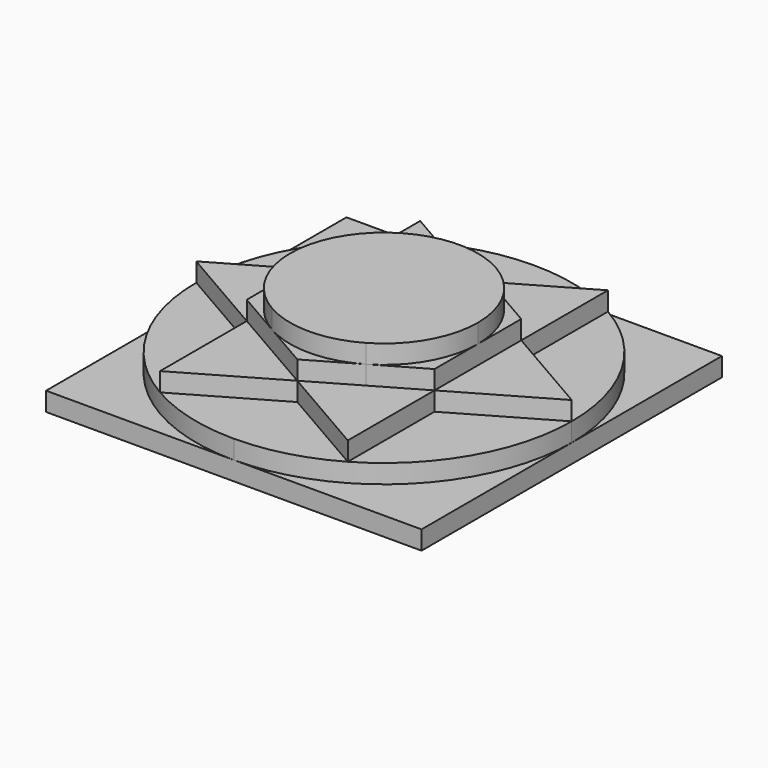
from build123d import *

# Parameters (mm, degrees)
F1_DEPTH = 25
F2_DEPTH = 20
F3_DEPTH = 15
F4_DEPTH = 10
F5_DEPTH = 5


with BuildPart() as f1:
    # F0 (on Top) → F1 (new body)
    with BuildSketch(Plane.XY):
        with BuildLine():
            ThreePointArc((12.5000002531, -21.6506349485), (21.6506351677, -12.4999998734), (25, 0))
            ThreePointArc((25, 0), (21.6506351909, 12.4999998333), (12.5000003334, 21.6506349021))
            ThreePointArc((12.5000003334, 21.6506349021), (3.194e-07, 25), (-12.4999997802, 21.6506352215))
            ThreePointArc((-12.4999997802, 21.6506352215), (-21.650635044, 12.5000000877), (-25, -5.13e-08))
            ThreePointArc((-25, -5.13e-08), (-21.6506351561, -12.4999998936), (-12.5000002572, -21.6506349461))
            ThreePointArc((-12.5000002572, -21.6506349461), (-2.4e-09, -25), (12.5000002531, -21.6506349485))
        make_face()
    extrude(amount=F1_DEPTH)


with BuildPart() as f2:
    # F0 (on Top) → F2 (new body)
    with BuildSketch(Plane.XY):
        with BuildLine():
            Line((-12.4999997802, 21.6506352215), (-25, 14.4337567297))
            Line((-25, 14.4337567297), (-25, -5.13e-08))
            ThreePointArc((-25, -5.13e-08), (-21.650635044, 12.5000000877), (-12.4999997802, 21.6506352215))
        make_face()
        with BuildLine():
            Line((12.5000003334, 21.6506349021), (0, 28.8675134595))
            Line((0, 28.8675134595), (-12.4999997802, 21.6506352215))
            ThreePointArc((-12.4999997802, 21.6506352215), (3.194e-07, 25), (12.5000003334, 21.6506349021))
        make_face()
        with BuildLine():
            Line((25, 0), (25, 14.4337567297))
            Line((25, 14.4337567297), (12.5000003334, 21.6506349021))
            ThreePointArc((12.5000003334, 21.6506349021), (21.6506351909, 12.4999998333), (25, 0))
        make_face()
        with BuildLine():
            ThreePointArc((12.5000002531, -21.6506349485), (21.6506351677, -12.4999998734), (25, 0))
            ThreePointArc((25, 0), (21.6506351909, 12.4999998333), (12.5000003334, 21.6506349021))
            ThreePointArc((12.5000003334, 21.6506349021), (3.194e-07, 25), (-12.4999997802, 21.6506352215))
            ThreePointArc((-12.4999997802, 21.6506352215), (-21.650635044, 12.5000000877), (-25, -5.13e-08))
            ThreePointArc((-25, -5.13e-08), (-21.6506351561, -12.4999998936), (-12.5000002572, -21.6506349461))
            ThreePointArc((-12.5000002572, -21.6506349461), (-2.4e-09, -25), (12.5000002531, -21.6506349485))
        make_face()
        with BuildLine():
            Line((12.5000002531, -21.6506349485), (25, -14.4337567297))
            Line((25, -14.4337567297), (25, 0))
            ThreePointArc((25, 0), (21.6506351677, -12.4999998734), (12.5000002531, -21.6506349485))
        make_face()
        with BuildLine():
            Line((12.5000002531, -21.6506349485), (25, -14.4337567297))
            Line((25, -14.4337567297), (25, 0))
            ThreePointArc((25, 0), (21.6506351677, -12.4999998734), (12.5000002531, -21.6506349485))
        make_face()
        with BuildLine():
            Line((-12.5000002572, -21.6506349461), (0, -28.8675134595))
            Line((0, -28.8675134595), (12.5000002531, -21.6506349485))
            ThreePointArc((12.5000002531, -21.6506349485), (-2.4e-09, -25), (-12.5000002572, -21.6506349461))
        make_face()
        with BuildLine():
            Line((-25, -5.13e-08), (-25, -14.4337567297))
            Line((-25, -14.4337567297), (-12.5000002572, -21.6506349461))
            ThreePointArc((-12.5000002572, -21.6506349461), (-21.6506351561, -12.4999998936), (-25, -5.13e-08))
        make_face()
    extrude(amount=F2_DEPTH)


with BuildPart() as f3:
    # F0 (on Top) → F3 (new body)
    with BuildSketch(Plane.XY):
        Polygon((-25, 14.4337567297), (-50, 0), (-25, -14.4337567297), (-25, -5.13e-08), align=None)
        with BuildLine():
            Line((-12.4999997802, 21.6506352215), (-25, 14.4337567297))
            Line((-25, 14.4337567297), (-25, -5.13e-08))
            ThreePointArc((-25, -5.13e-08), (-21.650635044, 12.5000000877), (-12.4999997802, 21.6506352215))
        make_face()
        Polygon((0, 28.8675134595), (-25, 43.3012701892), (-25, 14.4337567297), (-12.4999997802, 21.6506352215), align=None)
        with BuildLine():
            Line((12.5000003334, 21.6506349021), (0, 28.8675134595))
            Line((0, 28.8675134595), (-12.4999997802, 21.6506352215))
            ThreePointArc((-12.4999997802, 21.6506352215), (3.194e-07, 25), (12.5000003334, 21.6506349021))
        make_face()
        Polygon((25, 14.4337567297), (25, 43.3012701892), (0, 28.8675134595), (12.5000003334, 21.6506349021), align=None)
        with BuildLine():
            Line((25, 0), (25, 14.4337567297))
            Line((25, 14.4337567297), (12.5000003334, 21.6506349021))
            ThreePointArc((12.5000003334, 21.6506349021), (21.6506351909, 12.4999998333), (25, 0))
        make_face()
        Polygon((25, -14.4337567297), (50, 0), (25, 14.4337567297), (25, 0), align=None)
        with BuildLine():
            Line((12.5000002531, -21.6506349485), (25, -14.4337567297))
            Line((25, -14.4337567297), (25, 0))
            ThreePointArc((25, 0), (21.6506351677, -12.4999998734), (12.5000002531, -21.6506349485))
        make_face()
        Polygon((0, -28.8675134595), (25, -43.3012701892), (25, -14.4337567297), (12.5000002531, -21.6506349485), align=None)
        with BuildLine():
            Line((-12.5000002572, -21.6506349461), (0, -28.8675134595))
            Line((0, -28.8675134595), (12.5000002531, -21.6506349485))
            ThreePointArc((12.5000002531, -21.6506349485), (-2.4e-09, -25), (-12.5000002572, -21.6506349461))
        make_face()
        Polygon((-25, -14.4337567297), (-25, -43.3012701892), (0, -28.8675134595), (-12.5000002572, -21.6506349461), align=None)
        with BuildLine():
            Line((-25, -5.13e-08), (-25, -14.4337567297))
            Line((-25, -14.4337567297), (-12.5000002572, -21.6506349461))
            ThreePointArc((-12.5000002572, -21.6506349461), (-21.6506351561, -12.4999998936), (-25, -5.13e-08))
        make_face()
        with BuildLine():
            ThreePointArc((12.5000002531, -21.6506349485), (21.6506351677, -12.4999998734), (25, 0))
            ThreePointArc((25, 0), (21.6506351909, 12.4999998333), (12.5000003334, 21.6506349021))
            ThreePointArc((12.5000003334, 21.6506349021), (3.194e-07, 25), (-12.4999997802, 21.6506352215))
            ThreePointArc((-12.4999997802, 21.6506352215), (-21.650635044, 12.5000000877), (-25, -5.13e-08))
            ThreePointArc((-25, -5.13e-08), (-21.6506351561, -12.4999998936), (-12.5000002572, -21.6506349461))
            ThreePointArc((-12.5000002572, -21.6506349461), (-2.4e-09, -25), (12.5000002531, -21.6506349485))
        make_face()
    extrude(amount=F3_DEPTH)


with BuildPart() as f4:
    # F0 (on Top) → F4 (new body)
    with BuildSketch(Plane.XY):
        with BuildLine():
            Line((-25, 43.3012701892), (25, 43.3012701892))
            ThreePointArc((25, 43.3012701892), (12.9409522085, 48.2962913269), (-9.65e-08, 50))
            ThreePointArc((-9.65e-08, 50), (-12.9409523018, 48.296291302), (-25, 43.3012701892))
        make_face()
        with BuildLine():
            Line((25, 43.3012701892), (50, 0))
            ThreePointArc((50, 0), (43.3012701892, 25), (25, 43.3012701892))
        make_face()
        Polygon((25, 14.4337567297), (50, 0), (25, 43.3012701892), align=None)
        Polygon((25, 14.4337567297), (25, 43.3012701892), (0, 28.8675134595), (12.5000003334, 21.6506349021), align=None)
        Polygon((0, 28.8675134595), (25, 43.3012701892), (-25, 43.3012701892), align=None)
        Polygon((0, 28.8675134595), (-25, 43.3012701892), (-25, 14.4337567297), (-12.4999997802, 21.6506352215), align=None)
        Polygon((-25, 14.4337567297), (-25, 43.3012701892), (-50, 0), align=None)
        with BuildLine():
            Line((-50, 0), (-25, 43.3012701892))
            ThreePointArc((-25, 43.3012701892), (-43.3012701892, 25), (-50, 0))
        make_face()
        with BuildLine():
            ThreePointArc((12.5000002531, -21.6506349485), (21.6506351677, -12.4999998734), (25, 0))
            ThreePointArc((25, 0), (21.6506351909, 12.4999998333), (12.5000003334, 21.6506349021))
            ThreePointArc((12.5000003334, 21.6506349021), (3.194e-07, 25), (-12.4999997802, 21.6506352215))
            ThreePointArc((-12.4999997802, 21.6506352215), (-21.650635044, 12.5000000877), (-25, -5.13e-08))
            ThreePointArc((-25, -5.13e-08), (-21.6506351561, -12.4999998936), (-12.5000002572, -21.6506349461))
            ThreePointArc((-12.5000002572, -21.6506349461), (-2.4e-09, -25), (12.5000002531, -21.6506349485))
        make_face()
        Polygon((25, -14.4337567297), (50, 0), (25, 14.4337567297), (25, 0), align=None)
        with BuildLine():
            Line((12.5000003334, 21.6506349021), (0, 28.8675134595))
            Line((0, 28.8675134595), (-12.4999997802, 21.6506352215))
            ThreePointArc((-12.4999997802, 21.6506352215), (3.194e-07, 25), (12.5000003334, 21.6506349021))
        make_face()
        Polygon((-25, 14.4337567297), (-50, 0), (-25, -14.4337567297), (-25, -5.13e-08), align=None)
        with BuildLine():
            ThreePointArc((-50, 0), (-43.3012701892, -25), (-25, -43.3012701892))
            Line((-25, -43.3012701892), (-50, 0))
        make_face()
        Polygon((-25, -14.4337567297), (-25, -43.3012701892), (0, -28.8675134595), (-12.5000002572, -21.6506349461), align=None)
        Polygon((-25, -43.3012701892), (25, -43.3012701892), (0, -28.8675134595), align=None)
        with BuildLine():
            ThreePointArc((2.28e-08, -50), (12.9409522661, -48.2962913115), (25, -43.3012701892))
            Line((25, -43.3012701892), (-25, -43.3012701892))
            ThreePointArc((-25, -43.3012701892), (-12.9409522441, -48.2962913174), (2.28e-08, -50))
        make_face()
        with BuildLine():
            ThreePointArc((25, -43.3012701892), (43.3012701892, -25), (50, 0))
            Line((50, 0), (25, -43.3012701892))
        make_face()
        Polygon((25, -43.3012701892), (50, 0), (25, -14.4337567297), align=None)
        with BuildLine():
            Line((12.5000002531, -21.6506349485), (25, -14.4337567297))
            Line((25, -14.4337567297), (25, 0))
            ThreePointArc((25, 0), (21.6506351677, -12.4999998734), (12.5000002531, -21.6506349485))
        make_face()
        Polygon((0, -28.8675134595), (25, -43.3012701892), (25, -14.4337567297), (12.5000002531, -21.6506349485), align=None)
        Polygon((-50, 0), (-25, -43.3012701892), (-25, -14.4337567297), align=None)
        with BuildLine():
            Line((-25, -5.13e-08), (-25, -14.4337567297))
            Line((-25, -14.4337567297), (-12.5000002572, -21.6506349461))
            ThreePointArc((-12.5000002572, -21.6506349461), (-21.6506351561, -12.4999998936), (-25, -5.13e-08))
        make_face()
        with BuildLine():
            Line((-12.4999997802, 21.6506352215), (-25, 14.4337567297))
            Line((-25, 14.4337567297), (-25, -5.13e-08))
            ThreePointArc((-25, -5.13e-08), (-21.650635044, 12.5000000877), (-12.4999997802, 21.6506352215))
        make_face()
        with BuildLine():
            Line((-12.5000002572, -21.6506349461), (0, -28.8675134595))
            Line((0, -28.8675134595), (12.5000002531, -21.6506349485))
            ThreePointArc((12.5000002531, -21.6506349485), (-2.4e-09, -25), (-12.5000002572, -21.6506349461))
        make_face()
        with BuildLine():
            Line((25, 0), (25, 14.4337567297))
            Line((25, 14.4337567297), (12.5000003334, 21.6506349021))
            ThreePointArc((12.5000003334, 21.6506349021), (21.6506351909, 12.4999998333), (25, 0))
        make_face()
    extrude(amount=F4_DEPTH)


with BuildPart() as f5:
    # F0 (on Top) → F5 (new body)
    with BuildSketch(Plane.XY):
        with BuildLine():
            ThreePointArc((-25, 43.3012701892), (-12.9409523018, 48.296291302), (-9.65e-08, 50))
            Line((-9.65e-08, 50), (-50, 50))
            Line((-50, 50), (-50, 0))
            ThreePointArc((-50, 0), (-43.3012701892, 25), (-25, 43.3012701892))
        make_face()
        with BuildLine():
            ThreePointArc((25, 43.3012701892), (43.3012701892, 25), (50, 0))
            Line((50, 0), (50, 50))
            Line((50, 50), (-9.65e-08, 50))
            ThreePointArc((-9.65e-08, 50), (12.9409522085, 48.2962913269), (25, 43.3012701892))
        make_face()
        with BuildLine():
            Line((-25, 43.3012701892), (25, 43.3012701892))
            ThreePointArc((25, 43.3012701892), (12.9409522085, 48.2962913269), (-9.65e-08, 50))
            ThreePointArc((-9.65e-08, 50), (-12.9409523018, 48.296291302), (-25, 43.3012701892))
        make_face()
        Polygon((0, 28.8675134595), (25, 43.3012701892), (-25, 43.3012701892), align=None)
        Polygon((25, 14.4337567297), (25, 43.3012701892), (0, 28.8675134595), (12.5000003334, 21.6506349021), align=None)
        Polygon((25, 14.4337567297), (50, 0), (25, 43.3012701892), align=None)
        with BuildLine():
            Line((25, 43.3012701892), (50, 0))
            ThreePointArc((50, 0), (43.3012701892, 25), (25, 43.3012701892))
        make_face()
        Polygon((0, 28.8675134595), (-25, 43.3012701892), (-25, 14.4337567297), (-12.4999997802, 21.6506352215), align=None)
        Polygon((-25, 14.4337567297), (-25, 43.3012701892), (-50, 0), align=None)
        with BuildLine():
            Line((-50, 0), (-25, 43.3012701892))
            ThreePointArc((-25, 43.3012701892), (-43.3012701892, 25), (-50, 0))
        make_face()
        Polygon((-25, 14.4337567297), (-50, 0), (-25, -14.4337567297), (-25, -5.13e-08), align=None)
        Polygon((25, -14.4337567297), (50, 0), (25, 14.4337567297), (25, 0), align=None)
        with BuildLine():
            ThreePointArc((25, -43.3012701892), (43.3012701892, -25), (50, 0))
            Line((50, 0), (25, -43.3012701892))
        make_face()
        Polygon((25, -43.3012701892), (50, 0), (25, -14.4337567297), align=None)
        Polygon((0, -28.8675134595), (25, -43.3012701892), (25, -14.4337567297), (12.5000002531, -21.6506349485), align=None)
        with BuildLine():
            Line((12.5000002531, -21.6506349485), (25, -14.4337567297))
            Line((25, -14.4337567297), (25, 0))
            ThreePointArc((25, 0), (21.6506351677, -12.4999998734), (12.5000002531, -21.6506349485))
        make_face()
        with BuildLine():
            Line((-25, -5.13e-08), (-25, -14.4337567297))
            Line((-25, -14.4337567297), (-12.5000002572, -21.6506349461))
            ThreePointArc((-12.5000002572, -21.6506349461), (-21.6506351561, -12.4999998936), (-25, -5.13e-08))
        make_face()
        Polygon((-25, -14.4337567297), (-25, -43.3012701892), (0, -28.8675134595), (-12.5000002572, -21.6506349461), align=None)
        Polygon((-25, -43.3012701892), (25, -43.3012701892), (0, -28.8675134595), align=None)
        with BuildLine():
            ThreePointArc((-50, 0), (-43.3012701892, -25), (-25, -43.3012701892))
            Line((-25, -43.3012701892), (-50, 0))
        make_face()
        Polygon((-50, 0), (-25, -43.3012701892), (-25, -14.4337567297), align=None)
        with BuildLine():
            Line((-50, -50), (2.28e-08, -50))
            ThreePointArc((2.28e-08, -50), (-12.9409522441, -48.2962913174), (-25, -43.3012701892))
            ThreePointArc((-25, -43.3012701892), (-43.3012701892, -25), (-50, 0))
            Line((-50, 0), (-50, -50))
        make_face()
        with BuildLine():
            Line((50, -50), (50, 0))
            ThreePointArc((50, 0), (43.3012701892, -25), (25, -43.3012701892))
            ThreePointArc((25, -43.3012701892), (12.9409522661, -48.2962913115), (2.28e-08, -50))
            Line((2.28e-08, -50), (50, -50))
        make_face()
        with BuildLine():
            ThreePointArc((2.28e-08, -50), (12.9409522661, -48.2962913115), (25, -43.3012701892))
            Line((25, -43.3012701892), (-25, -43.3012701892))
            ThreePointArc((-25, -43.3012701892), (-12.9409522441, -48.2962913174), (2.28e-08, -50))
        make_face()
        with BuildLine():
            Line((-12.4999997802, 21.6506352215), (-25, 14.4337567297))
            Line((-25, 14.4337567297), (-25, -5.13e-08))
            ThreePointArc((-25, -5.13e-08), (-21.650635044, 12.5000000877), (-12.4999997802, 21.6506352215))
        make_face()
        with BuildLine():
            Line((12.5000003334, 21.6506349021), (0, 28.8675134595))
            Line((0, 28.8675134595), (-12.4999997802, 21.6506352215))
            ThreePointArc((-12.4999997802, 21.6506352215), (3.194e-07, 25), (12.5000003334, 21.6506349021))
        make_face()
        with BuildLine():
            Line((25, 0), (25, 14.4337567297))
            Line((25, 14.4337567297), (12.5000003334, 21.6506349021))
            ThreePointArc((12.5000003334, 21.6506349021), (21.6506351909, 12.4999998333), (25, 0))
        make_face()
        with BuildLine():
            ThreePointArc((12.5000002531, -21.6506349485), (21.6506351677, -12.4999998734), (25, 0))
            ThreePointArc((25, 0), (21.6506351909, 12.4999998333), (12.5000003334, 21.6506349021))
            ThreePointArc((12.5000003334, 21.6506349021), (3.194e-07, 25), (-12.4999997802, 21.6506352215))
            ThreePointArc((-12.4999997802, 21.6506352215), (-21.650635044, 12.5000000877), (-25, -5.13e-08))
            ThreePointArc((-25, -5.13e-08), (-21.6506351561, -12.4999998936), (-12.5000002572, -21.6506349461))
            ThreePointArc((-12.5000002572, -21.6506349461), (-2.4e-09, -25), (12.5000002531, -21.6506349485))
        make_face()
        with BuildLine():
            Line((-12.5000002572, -21.6506349461), (0, -28.8675134595))
            Line((0, -28.8675134595), (12.5000002531, -21.6506349485))
            ThreePointArc((12.5000002531, -21.6506349485), (-2.4e-09, -25), (-12.5000002572, -21.6506349461))
        make_face()
    extrude(amount=F5_DEPTH)


solid = Compound([f1.part, f2.part, f3.part, f4.part, f5.part])
